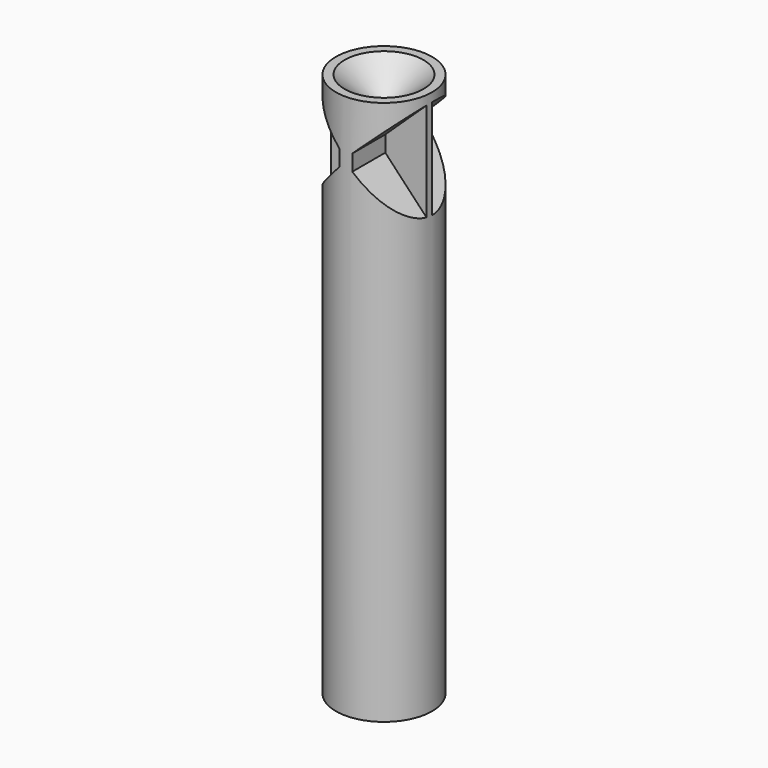
from build123d import *

# Parameters (mm, degrees)
F0_R          = 15
F1_DEPTH      = 120
F1_DEPTH_BACK = 50
F3_START      = 2
F3_DEPTH      = 23
F4_DEPTH      = 25


with BuildPart() as f1:
    # F0 (on Top) → F1 (new body, two sides)
    with BuildSketch(Plane.XY) as f1_sk:
        Circle(F0_R)
    extrude(amount=F1_DEPTH)
    extrude(f1_sk.sketch, amount=-F1_DEPTH_BACK)

    # F2 (on Front) → F3 (cut)
    with BuildSketch(Plane.XZ.offset(F3_START)):
        Polygon((-17.8860742599, 120), (-17, 105), (-17, 84.1139257401), (-2, 100), (-2, 105), align=None)
        Polygon((-17, 70), (-17, 84.1139257401), (-17.8860742599, 83.1755096406), align=None)
        Polygon((2, 100), (17, 84.1139257401), (17, 105), (17.8860742599, 120), (2, 105), align=None)
        Polygon((17, 70), (17.8860742599, 83.1755096406), (17, 84.1139257401), align=None)
    extrude(amount=F3_DEPTH, mode=Mode.SUBTRACT)

    # F2 (on Front) → F4 (cut)
    with BuildSketch(Plane.XZ):
        Polygon((-17.8860742599, 120), (-17, 105), (-17, 84.1139257401), (-2, 100), (-2, 105), align=None)
        Polygon((-17, 70), (-17, 84.1139257401), (-17.8860742599, 83.1755096406), align=None)
        Polygon((2, 100), (17, 84.1139257401), (17, 105), (17.8860742599, 120), (2, 105), align=None)
        Polygon((17, 70), (17.8860742599, 83.1755096406), (17, 84.1139257401), align=None)
    extrude(amount=-F4_DEPTH, mode=Mode.SUBTRACT)

    # F5 (on Front) → F6 (revolve, cut)
    with BuildSketch(Plane.XZ):
        Polygon((0, 123.1170922147), (-15.8692053304, 123.1170922147), (-1, 110.1170922147), (-1, 65.1170922147), (-13.300107735, 50.4583946322), (-13.300107735, -8.0997264013), (0, -8.0997264013), (0, 65.1170922147), (0, 110.1170922147), align=None)
    revolve(axis=Axis((0, 0, 116.6170922147), (0, 0, -1)), mode=Mode.SUBTRACT)


solid = f1.part
